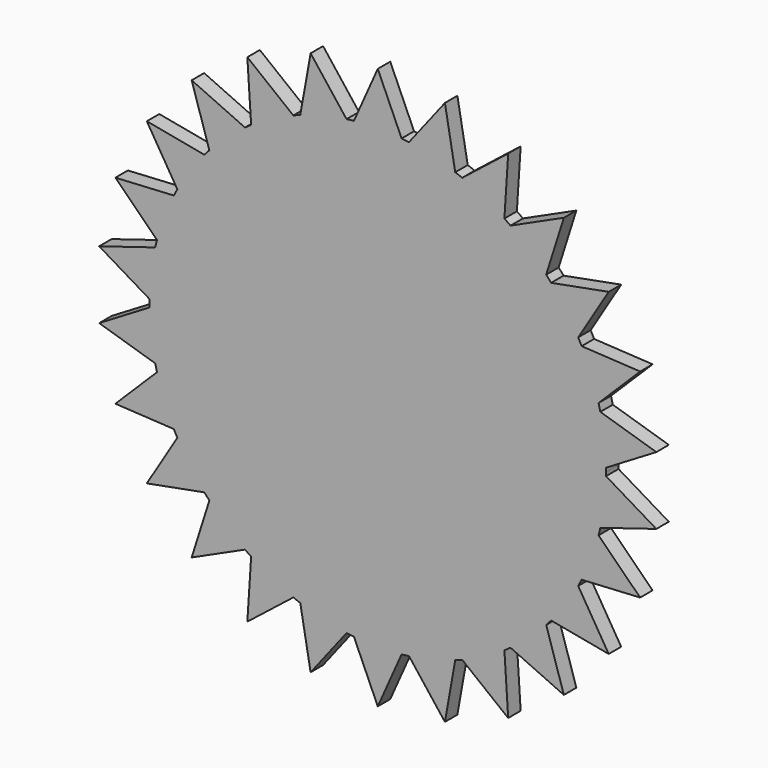
from build123d import *

# Parameters (mm, degrees)
F1_DEPTH = 2.54


with BuildPart() as f1:
    # F0 (on Front) → F1 (new body)
    with BuildSketch(Plane.XZ):
        with BuildLine():
            ThreePointArc((37.16459, -0.605521), (37.16829, -0.302771), (37.169523, 0))
            ThreePointArc((37.169523, 0), (37.16829, 0.302771), (37.16459, 0.605521))
            ThreePointArc((37.16459, 0.605521), (36.898515, 4.480291), (36.229566, 8.306143))
            ThreePointArc((36.229566, 8.306143), (36.089444, 8.895249), (35.939744, 9.481994))
            ThreePointArc((35.939744, 9.481994), (34.754108, 13.180495), (33.18901, 16.735084))
            ThreePointArc((33.18901, 16.735084), (32.911978, 17.273539), (32.626211, 17.807409))
            ThreePointArc((32.626211, 17.807409), (30.589918, 21.114696), (28.21963, 24.191443))
            ThreePointArc((28.21963, 24.191443), (27.821787, 24.647953), (27.416561, 25.097921))
            ThreePointArc((27.416561, 25.097921), (24.647953, 27.821787), (21.610228, 30.241883))
            ThreePointArc((21.610228, 30.241883), (21.114696, 30.589918), (20.61356, 30.929833))
            ThreePointArc((20.61356, 30.929833), (17.273539, 32.911978), (13.744917, 34.534775))
            ThreePointArc((13.744917, 34.534775), (13.180495, 34.754108), (12.612573, 34.964216))
            ThreePointArc((12.612573, 34.964216), (8.895249, 36.089444), (5.080802, 36.820631))
            ThreePointArc((5.080802, 36.820631), (4.480291, 36.898515), (3.87859, 36.966606))
            ThreePointArc((3.87859, 36.966606), (0, 37.169523), (-3.87859, 36.966606))
            ThreePointArc((-3.87859, 36.966606), (-4.480291, 36.898515), (-5.080802, 36.820631))
            ThreePointArc((-5.080802, 36.820631), (-8.895249, 36.089444), (-12.612573, 34.964216))
            ThreePointArc((-12.612573, 34.964216), (-13.180495, 34.754108), (-13.744917, 34.534775))
            ThreePointArc((-13.744917, 34.534775), (-17.273539, 32.911978), (-20.61356, 30.929833))
            ThreePointArc((-20.61356, 30.929833), (-21.114696, 30.589918), (-21.610228, 30.241883))
            ThreePointArc((-21.610228, 30.241883), (-24.647953, 27.821787), (-27.416561, 25.097921))
            ThreePointArc((-27.416561, 25.097921), (-27.821787, 24.647953), (-28.21963, 24.191443))
            ThreePointArc((-28.21963, 24.191443), (-30.589918, 21.114696), (-32.626211, 17.807409))
            ThreePointArc((-32.626211, 17.807409), (-32.911978, 17.273539), (-33.18901, 16.735084))
            ThreePointArc((-33.18901, 16.735084), (-34.754108, 13.180495), (-35.939744, 9.481994))
            ThreePointArc((-35.939744, 9.481994), (-36.089444, 8.895249), (-36.229566, 8.306143))
            ThreePointArc((-36.229566, 8.306143), (-36.898515, 4.480291), (-37.16459, 0.605521))
            ThreePointArc((-37.16459, 0.605521), (-37.169523, 0), (-37.16459, -0.605521))
            ThreePointArc((-37.16459, -0.605521), (-36.898515, -4.480291), (-36.229566, -8.306143))
            ThreePointArc((-36.229566, -8.306143), (-36.089444, -8.895249), (-35.939744, -9.481994))
            ThreePointArc((-35.939744, -9.481994), (-34.754108, -13.180495), (-33.18901, -16.735084))
            ThreePointArc((-33.18901, -16.735084), (-32.911978, -17.273539), (-32.626211, -17.807409))
            ThreePointArc((-32.626211, -17.807409), (-30.589918, -21.114696), (-28.21963, -24.191443))
            ThreePointArc((-28.21963, -24.191443), (-27.821787, -24.647953), (-27.416561, -25.097921))
            ThreePointArc((-27.416561, -25.097921), (-24.647953, -27.821787), (-21.610228, -30.241883))
            ThreePointArc((-21.610228, -30.241883), (-21.114696, -30.589918), (-20.61356, -30.929833))
            ThreePointArc((-20.61356, -30.929833), (-17.273539, -32.911978), (-13.744917, -34.534775))
            ThreePointArc((-13.744917, -34.534775), (-13.180495, -34.754108), (-12.612573, -34.964216))
            ThreePointArc((-12.612573, -34.964216), (-8.895249, -36.089444), (-5.080802, -36.820631))
            ThreePointArc((-5.080802, -36.820631), (-4.480291, -36.898515), (-3.87859, -36.966606))
            ThreePointArc((-3.87859, -36.966606), (0, -37.169523), (3.87859, -36.966606))
            ThreePointArc((3.87859, -36.966606), (4.480291, -36.898515), (5.080802, -36.820631))
            ThreePointArc((5.080802, -36.820631), (8.895249, -36.089444), (12.612573, -34.964216))
            ThreePointArc((12.612573, -34.964216), (13.180495, -34.754108), (13.744917, -34.534775))
            ThreePointArc((13.744917, -34.534775), (17.273539, -32.911978), (20.61356, -30.929833))
            ThreePointArc((20.61356, -30.929833), (21.114696, -30.589918), (21.610228, -30.241883))
            ThreePointArc((21.610228, -30.241883), (24.647953, -27.821787), (27.416561, -25.097921))
            ThreePointArc((27.416561, -25.097921), (27.821787, -24.647953), (28.21963, -24.191443))
            ThreePointArc((28.21963, -24.191443), (30.589918, -21.114696), (32.626211, -17.807409))
            ThreePointArc((32.626211, -17.807409), (32.911978, -17.273539), (33.18901, -16.735084))
            ThreePointArc((33.18901, -16.735084), (34.754108, -13.180495), (35.939744, -9.481994))
            ThreePointArc((35.939744, -9.481994), (36.089444, -8.895249), (36.229566, -8.306143))
            ThreePointArc((36.229566, -8.306143), (36.898515, -4.480291), (37.16459, -0.605521))
        make_face()
        with BuildLine():
            ThreePointArc((36.229566, 8.306143), (36.898515, 4.480291), (37.16459, 0.605521))
            Line((37.16459, 0.605521), (45.350049, 5.506493))
            Line((45.350049, 5.506493), (36.229566, 8.306143))
        make_face()
        with BuildLine():
            Line((45.350049, -5.506493), (37.16459, -0.605521))
            ThreePointArc((37.16459, -0.605521), (36.898515, -4.480291), (36.229566, -8.306143))
            Line((36.229566, -8.306143), (45.350049, -5.506493))
        make_face()
        with BuildLine():
            ThreePointArc((33.18901, 16.735084), (34.754108, 13.180495), (35.939744, 9.481994))
            Line((35.939744, 9.481994), (42.714469, 16.199461))
            Line((42.714469, 16.199461), (33.18901, 16.735084))
        make_face()
        with BuildLine():
            Line((42.714469, -16.199461), (35.939744, -9.481994))
            ThreePointArc((35.939744, -9.481994), (34.754108, -13.180495), (33.18901, -16.735084))
            Line((33.18901, -16.735084), (42.714469, -16.199461))
        make_face()
        with BuildLine():
            ThreePointArc((28.21963, 24.191443), (30.589918, 21.114696), (32.626211, 17.807409))
            Line((32.626211, 17.807409), (37.596479, 25.950976))
            Line((37.596479, 25.950976), (28.21963, 24.191443))
        make_face()
        with BuildLine():
            Line((37.596479, -25.950976), (32.626211, -17.807409))
            ThreePointArc((32.626211, -17.807409), (30.589918, -21.114696), (28.21963, -24.191443))
            Line((28.21963, -24.191443), (37.596479, -25.950976))
        make_face()
        with BuildLine():
            ThreePointArc((21.610228, 30.241883), (24.647953, 27.821787), (27.416561, 25.097921))
            Line((27.416561, 25.097921), (30.293519, 34.194314))
            Line((30.293519, 34.194314), (21.610228, 30.241883))
        make_face()
        with BuildLine():
            Line((30.293519, -34.194314), (27.416561, -25.097921))
            ThreePointArc((27.416561, -25.097921), (24.647953, -27.821787), (21.610228, -30.241883))
            Line((21.610228, -30.241883), (30.293519, -34.194314))
        make_face()
        with BuildLine():
            ThreePointArc((13.744917, 34.534775), (17.273539, 32.911978), (20.61356, 30.929833))
            Line((20.61356, 30.929833), (21.230009, 40.450403))
            Line((21.230009, 40.450403), (13.744917, 34.534775))
        make_face()
        with BuildLine():
            Line((21.230009, -40.450403), (20.61356, -30.929833))
            ThreePointArc((20.61356, -30.929833), (17.273539, -32.911978), (13.744917, -34.534775))
            Line((13.744917, -34.534775), (21.230009, -40.450403))
        make_face()
        with BuildLine():
            ThreePointArc((5.080802, 36.820631), (8.895249, 36.089444), (12.612573, 34.964216))
            Line((12.612573, 34.964216), (10.932689, 44.355662))
            Line((10.932689, 44.355662), (5.080802, 36.820631))
        make_face()
        with BuildLine():
            Line((10.932689, -44.355662), (12.612573, -34.964216))
            ThreePointArc((12.612573, -34.964216), (8.895249, -36.089444), (5.080802, -36.820631))
            Line((5.080802, -36.820631), (10.932689, -44.355662))
        make_face()
        with BuildLine():
            ThreePointArc((-3.87859, 36.966606), (0, 37.169523), (3.87859, 36.966606))
            Line((3.87859, 36.966606), (0, 45.683131))
            Line((0, 45.683131), (-3.87859, 36.966606))
        make_face()
        with BuildLine():
            Line((0, -45.683131), (3.87859, -36.966606))
            ThreePointArc((3.87859, -36.966606), (0, -37.169523), (-3.87859, -36.966606))
            Line((-3.87859, -36.966606), (0, -45.683131))
        make_face()
        with BuildLine():
            ThreePointArc((-12.612573, 34.964216), (-8.895249, 36.089444), (-5.080802, 36.820631))
            Line((-5.080802, 36.820631), (-10.932689, 44.355662))
            Line((-10.932689, 44.355662), (-12.612573, 34.964216))
        make_face()
        with BuildLine():
            Line((-10.932689, -44.355662), (-5.080802, -36.820631))
            ThreePointArc((-5.080802, -36.820631), (-8.895249, -36.089444), (-12.612573, -34.964216))
            Line((-12.612573, -34.964216), (-10.932689, -44.355662))
        make_face()
        with BuildLine():
            ThreePointArc((-20.61356, 30.929833), (-17.273539, 32.911978), (-13.744917, 34.534775))
            Line((-13.744917, 34.534775), (-21.230009, 40.450403))
            Line((-21.230009, 40.450403), (-20.61356, 30.929833))
        make_face()
        with BuildLine():
            Line((-21.230009, -40.450403), (-13.744917, -34.534775))
            ThreePointArc((-13.744917, -34.534775), (-17.273539, -32.911978), (-20.61356, -30.929833))
            Line((-20.61356, -30.929833), (-21.230009, -40.450403))
        make_face()
        with BuildLine():
            ThreePointArc((-27.416561, 25.097921), (-24.647953, 27.821787), (-21.610228, 30.241883))
            Line((-21.610228, 30.241883), (-30.293519, 34.194314))
            Line((-30.293519, 34.194314), (-27.416561, 25.097921))
        make_face()
        with BuildLine():
            Line((-30.293519, -34.194314), (-21.610228, -30.241883))
            ThreePointArc((-21.610228, -30.241883), (-24.647953, -27.821787), (-27.416561, -25.097921))
            Line((-27.416561, -25.097921), (-30.293519, -34.194314))
        make_face()
        with BuildLine():
            ThreePointArc((-32.626211, 17.807409), (-30.589918, 21.114696), (-28.21963, 24.191443))
            Line((-28.21963, 24.191443), (-37.596479, 25.950976))
            Line((-37.596479, 25.950976), (-32.626211, 17.807409))
        make_face()
        with BuildLine():
            Line((-37.596479, -25.950976), (-28.21963, -24.191443))
            ThreePointArc((-28.21963, -24.191443), (-30.589918, -21.114696), (-32.626211, -17.807409))
            Line((-32.626211, -17.807409), (-37.596479, -25.950976))
        make_face()
        with BuildLine():
            ThreePointArc((-35.939744, 9.481994), (-34.754108, 13.180495), (-33.18901, 16.735084))
            Line((-33.18901, 16.735084), (-42.714469, 16.199461))
            Line((-42.714469, 16.199461), (-35.939744, 9.481994))
        make_face()
        with BuildLine():
            Line((-42.714469, -16.199461), (-33.18901, -16.735084))
            ThreePointArc((-33.18901, -16.735084), (-34.754108, -13.180495), (-35.939744, -9.481994))
            Line((-35.939744, -9.481994), (-42.714469, -16.199461))
        make_face()
        with BuildLine():
            ThreePointArc((-37.16459, 0.605521), (-36.898515, 4.480291), (-36.229566, 8.306143))
            Line((-36.229566, 8.306143), (-45.350049, 5.506493))
            Line((-45.350049, 5.506493), (-37.16459, 0.605521))
        make_face()
        with BuildLine():
            Line((-45.350049, -5.506493), (-36.229566, -8.306143))
            ThreePointArc((-36.229566, -8.306143), (-36.898515, -4.480291), (-37.16459, -0.605521))
            Line((-37.16459, -0.605521), (-45.350049, -5.506493))
        make_face()
    extrude(amount=F1_DEPTH)


solid = f1.part
